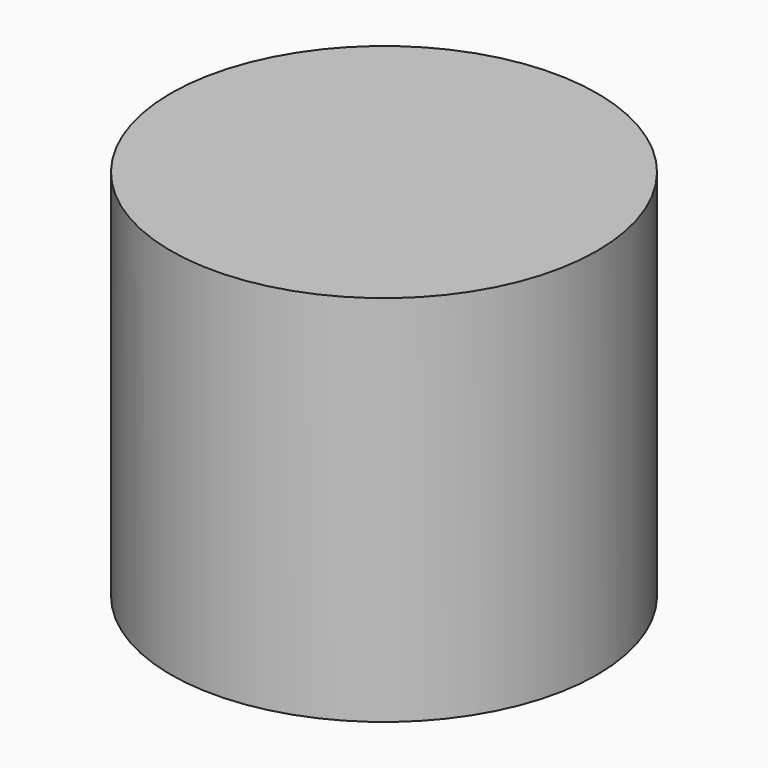
from build123d import *

# Parameters (mm, degrees)
CYLINDER_R     = 4
CYLINDER_DEPTH = 7


with BuildPart() as part:
    # Cylinder → Cylinder (new body)
    with BuildSketch(Plane.XY):
        Circle(CYLINDER_R)
    extrude(amount=CYLINDER_DEPTH)


solid = part.part
